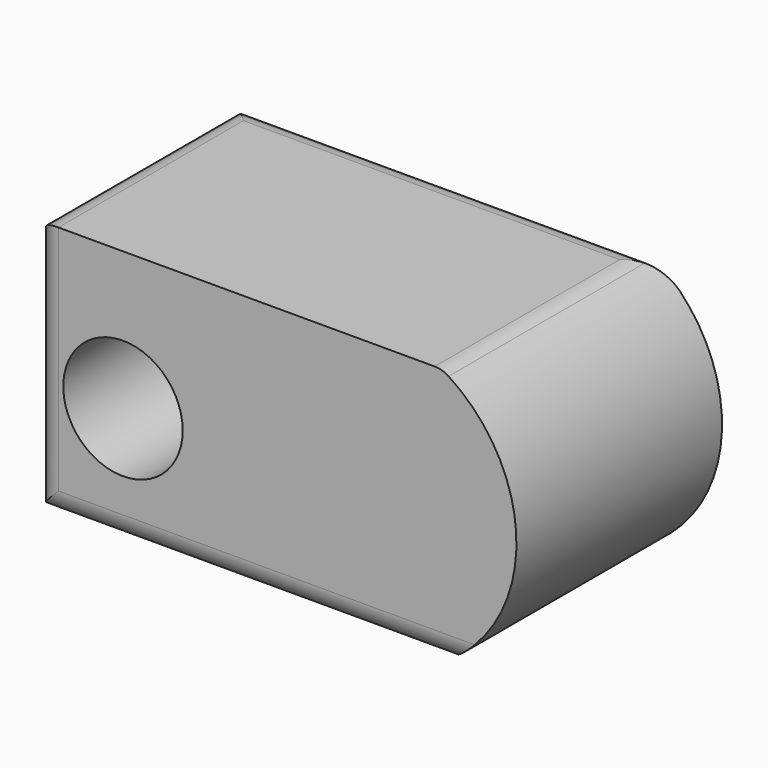
from build123d import *

# Parameters (mm, degrees)
F0_R     = 11.803545
F1_DEPTH = 50.8
F2_R     = 5.08


with BuildPart() as f1:
    # F0 (on Front) → F1 (new body)
    with BuildSketch(Plane.XZ):
        with BuildLine():
            Line((24.751294, 23.600072), (-56.122124, 23.600072))
            Line((-56.122124, 23.600072), (-56.122124, -27.341548))
            Line((-56.122124, -27.341548), (24.751294, -27.341548))
            ThreePointArc((24.751294, -27.341548), (39.505792, -1.870738), (24.751294, 23.600072))
        make_face()
        with Locations((-38.278166, -3.741475)):
            Circle(F0_R, mode=Mode.SUBTRACT)
    extrude(amount=F1_DEPTH)

    # F2
    f2_edges = [f1.edges().sort_by_distance(p)[0] for p in [
        (24.751294, -25.4, 23.600072),
        (-15.685415, 0, 23.600072),
        (-56.122124, -25.4, 23.600072),
        (-56.122124, -50.8, -1.870738),
        (-15.685415, -50.8, -27.341548),
    ]]
    fillet(f2_edges, radius=F2_R)


solid = f1.part
